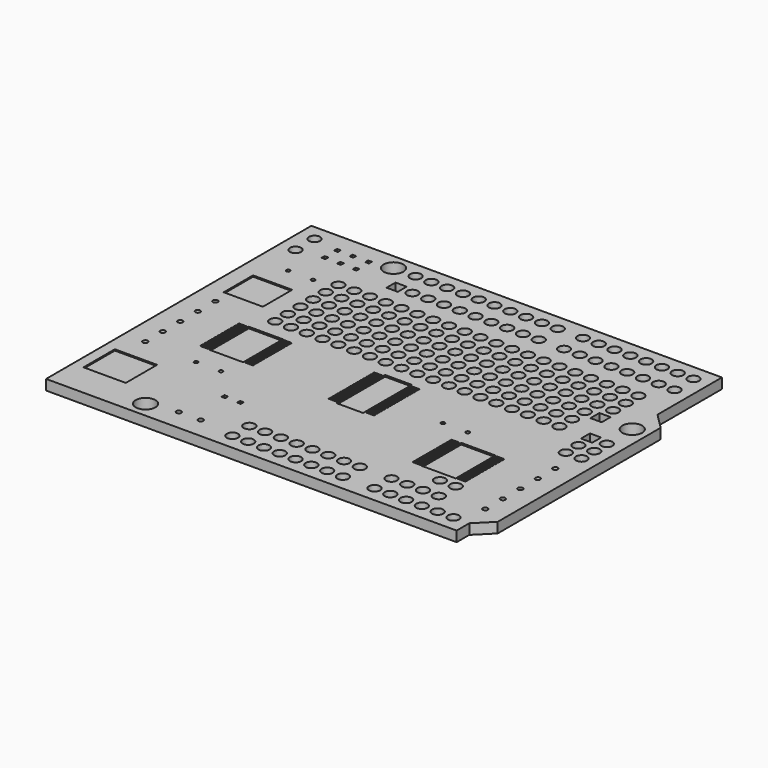
from build123d import *

# Parameters (mm, degrees)
F0_R     = 1.5875
F0_R_2   = 0.4
F0_R_3   = 0.9
F0_W     = 0.6
F0_H     = 0.6
F0_W_2   = 1.8
F0_H_2   = 1.8
F1_DEPTH = 1.65
F2_W     = 5.5
F2_H     = 8
F2_W_2   = 1.25
F2_H_2   = 0.5
F2_W_3   = 4.3
F2_H_3   = 9.8
F3_DEPTH = 0.25
F4_R     = 0.3
F5_DEPTH = 0.5
F6_W     = 6.3
F6_H     = 5.9
F6_W_2   = 6.8
F6_H_2   = 6.3
F7_DEPTH = 0.2


with BuildPart() as f1:
    # F0 (on Top) → F1 (new body)
    with BuildSketch(Plane.XY):
        Polygon((0, 53.34), (0, 0), (66.04, 0), (66.04, 2.54), (68.58, 5.08), (68.58, 37.846), (66.04, 40.386), (66.04, 53.34), align=None)
        with Locations((13.97, 2.54)):
            Circle(F0_R, mode=Mode.SUBTRACT)
        with Locations((18.64, 3.4)):
            Circle(F0_R_2, mode=Mode.SUBTRACT)
        with Locations((22.16, 3.4)):
            Circle(F0_R_2, mode=Mode.SUBTRACT)
        with Locations((27.94, 2.54)):
            Circle(F0_R_3, mode=Mode.SUBTRACT)
        with Locations((30.48, 2.54)):
            Circle(F0_R_3, mode=Mode.SUBTRACT)
        with Locations((33.02, 2.54)):
            Circle(F0_R_3, mode=Mode.SUBTRACT)
        with Locations((27.94, 5.94)):
            Circle(F0_R_3, mode=Mode.SUBTRACT)
        with Locations((30.48, 5.94)):
            Circle(F0_R_3, mode=Mode.SUBTRACT)
        with Locations((33.02, 5.94)):
            Circle(F0_R_3, mode=Mode.SUBTRACT)
        with Locations((20.55, 10.25)):
            Rectangle(F0_W, F0_H, mode=Mode.SUBTRACT)
        with Locations((23.05, 10.25)):
            Rectangle(F0_W, F0_H, mode=Mode.SUBTRACT)
        with Locations((3.4, 15.7)):
            Circle(F0_R_2, mode=Mode.SUBTRACT)
        with Locations((3.4, 19.22)):
            Circle(F0_R_2, mode=Mode.SUBTRACT)
        with Locations((3.4, 22.74)):
            Circle(F0_R_2, mode=Mode.SUBTRACT)
        with Locations((3.4, 26.26)):
            Circle(F0_R_2, mode=Mode.SUBTRACT)
        with Locations((35.56, 2.54)):
            Circle(F0_R_3, mode=Mode.SUBTRACT)
        with Locations((38.1, 2.54)):
            Circle(F0_R_3, mode=Mode.SUBTRACT)
        with Locations((40.64, 2.54)):
            Circle(F0_R_3, mode=Mode.SUBTRACT)
        with Locations((35.56, 5.94)):
            Circle(F0_R_3, mode=Mode.SUBTRACT)
        with Locations((38.1, 5.94)):
            Circle(F0_R_3, mode=Mode.SUBTRACT)
        with Locations((40.64, 5.94)):
            Circle(F0_R_3, mode=Mode.SUBTRACT)
        with Locations((43.18, 2.54)):
            Circle(F0_R_3, mode=Mode.SUBTRACT)
        with Locations((45.72, 2.54)):
            Circle(F0_R_3, mode=Mode.SUBTRACT)
        with Locations((50.8, 2.54)):
            Circle(F0_R_3, mode=Mode.SUBTRACT)
        with Locations((43.18, 5.94)):
            Circle(F0_R_3, mode=Mode.SUBTRACT)
        with Locations((45.72, 5.94)):
            Circle(F0_R_3, mode=Mode.SUBTRACT)
        with Locations((50.8, 5.94)):
            Circle(F0_R_3, mode=Mode.SUBTRACT)
        with Locations((53.34, 2.54)):
            Circle(F0_R_3, mode=Mode.SUBTRACT)
        with Locations((55.88, 2.54)):
            Circle(F0_R_3, mode=Mode.SUBTRACT)
        with Locations((58.42, 2.54)):
            Circle(F0_R_3, mode=Mode.SUBTRACT)
        with Locations((53.34, 5.94)):
            Circle(F0_R_3, mode=Mode.SUBTRACT)
        with Locations((55.88, 5.94)):
            Circle(F0_R_3, mode=Mode.SUBTRACT)
        with Locations((58.42, 5.94)):
            Circle(F0_R_3, mode=Mode.SUBTRACT)
        with Locations((60.96, 2.54)):
            Circle(F0_R_3, mode=Mode.SUBTRACT)
        with Locations((63.5, 2.54)):
            Circle(F0_R_3, mode=Mode.SUBTRACT)
        with Locations((55.88, 9.34)):
            Circle(F0_R_3, mode=Mode.SUBTRACT)
        with Locations((58.42, 9.34)):
            Circle(F0_R_3, mode=Mode.SUBTRACT)
        with Locations((65.18, 6.84)):
            Circle(F0_R_2, mode=Mode.SUBTRACT)
        with Locations((65.18, 10.36)):
            Circle(F0_R_2, mode=Mode.SUBTRACT)
        with Locations((65.18, 13.88)):
            Circle(F0_R_2, mode=Mode.SUBTRACT)
        with Locations((65.18, 17.4)):
            Circle(F0_R_2, mode=Mode.SUBTRACT)
        with Locations((65.18, 20.92)):
            Circle(F0_R_2, mode=Mode.SUBTRACT)
        with Locations((63.5, 25.12)):
            Circle(F0_R_3, mode=Mode.SUBTRACT)
        with Locations((66.04, 25.12)):
            Circle(F0_R_3, mode=Mode.SUBTRACT)
        with Locations((3.4, 29.78)):
            Circle(F0_R_2, mode=Mode.SUBTRACT)
        with Locations((12.7, 30.2)):
            Circle(F0_R_3, mode=Mode.SUBTRACT)
        with Locations((12.7, 32.74)):
            Circle(F0_R_3, mode=Mode.SUBTRACT)
        with Locations((15.24, 30.2)):
            Circle(F0_R_3, mode=Mode.SUBTRACT)
        with Locations((15.24, 32.74)):
            Circle(F0_R_3, mode=Mode.SUBTRACT)
        with Locations((12.7, 35.28)):
            Circle(F0_R_3, mode=Mode.SUBTRACT)
        with Locations((15.24, 35.28)):
            Circle(F0_R_3, mode=Mode.SUBTRACT)
        with Locations((12.7, 37.82)):
            Circle(F0_R_3, mode=Mode.SUBTRACT)
        with Locations((15.24, 37.82)):
            Circle(F0_R_3, mode=Mode.SUBTRACT)
        with Locations((17.78, 30.2)):
            Circle(F0_R_3, mode=Mode.SUBTRACT)
        with Locations((20.32, 30.2)):
            Circle(F0_R_3, mode=Mode.SUBTRACT)
        with Locations((17.78, 32.74)):
            Circle(F0_R_3, mode=Mode.SUBTRACT)
        with Locations((20.32, 32.74)):
            Circle(F0_R_3, mode=Mode.SUBTRACT)
        with Locations((22.86, 30.2)):
            Circle(F0_R_3, mode=Mode.SUBTRACT)
        with Locations((25.4, 30.2)):
            Circle(F0_R_3, mode=Mode.SUBTRACT)
        with Locations((22.86, 32.74)):
            Circle(F0_R_3, mode=Mode.SUBTRACT)
        with Locations((25.4, 32.74)):
            Circle(F0_R_3, mode=Mode.SUBTRACT)
        with Locations((27.94, 30.2)):
            Circle(F0_R_3, mode=Mode.SUBTRACT)
        with Locations((27.94, 32.74)):
            Circle(F0_R_3, mode=Mode.SUBTRACT)
        with Locations((30.48, 30.2)):
            Circle(F0_R_3, mode=Mode.SUBTRACT)
        with Locations((33.02, 30.2)):
            Circle(F0_R_3, mode=Mode.SUBTRACT)
        with Locations((30.48, 32.74)):
            Circle(F0_R_3, mode=Mode.SUBTRACT)
        with Locations((33.02, 32.74)):
            Circle(F0_R_3, mode=Mode.SUBTRACT)
        with Locations((17.78, 35.28)):
            Circle(F0_R_3, mode=Mode.SUBTRACT)
        with Locations((20.32, 35.28)):
            Circle(F0_R_3, mode=Mode.SUBTRACT)
        with Locations((22.86, 35.28)):
            Circle(F0_R_3, mode=Mode.SUBTRACT)
        with Locations((25.4, 35.28)):
            Circle(F0_R_3, mode=Mode.SUBTRACT)
        with Locations((17.78, 37.82)):
            Circle(F0_R_3, mode=Mode.SUBTRACT)
        with Locations((20.32, 37.82)):
            Circle(F0_R_3, mode=Mode.SUBTRACT)
        with Locations((22.86, 37.82)):
            Circle(F0_R_3, mode=Mode.SUBTRACT)
        with Locations((25.4, 37.82)):
            Circle(F0_R_3, mode=Mode.SUBTRACT)
        with Locations((27.94, 35.28)):
            Circle(F0_R_3, mode=Mode.SUBTRACT)
        with Locations((30.48, 35.28)):
            Circle(F0_R_3, mode=Mode.SUBTRACT)
        with Locations((33.02, 35.28)):
            Circle(F0_R_3, mode=Mode.SUBTRACT)
        with Locations((27.94, 37.82)):
            Circle(F0_R_3, mode=Mode.SUBTRACT)
        with Locations((30.48, 37.82)):
            Circle(F0_R_3, mode=Mode.SUBTRACT)
        with Locations((33.02, 37.82)):
            Circle(F0_R_3, mode=Mode.SUBTRACT)
        with Locations((12.7, 40.36)):
            Circle(F0_R_3, mode=Mode.SUBTRACT)
        with Locations((12.7, 42.9)):
            Circle(F0_R_3, mode=Mode.SUBTRACT)
        with Locations((15.24, 40.36)):
            Circle(F0_R_3, mode=Mode.SUBTRACT)
        with Locations((15.24, 42.9)):
            Circle(F0_R_3, mode=Mode.SUBTRACT)
        with Locations((2.54, 46.99)):
            Circle(F0_R_3, mode=Mode.SUBTRACT)
        with Locations((6.75, 47.645)):
            Rectangle(F0_W, F0_H, mode=Mode.SUBTRACT)
        with Locations((2.54, 50.8)):
            Circle(F0_R_3, mode=Mode.SUBTRACT)
        with Locations((6.75, 50.145)):
            Rectangle(F0_W, F0_H, mode=Mode.SUBTRACT)
        with Locations((9.25, 47.645)):
            Rectangle(F0_W, F0_H, mode=Mode.SUBTRACT)
        with Locations((11.75, 47.645)):
            Rectangle(F0_W, F0_H, mode=Mode.SUBTRACT)
        with Locations((9.25, 50.145)):
            Rectangle(F0_W, F0_H, mode=Mode.SUBTRACT)
        with Locations((11.75, 50.145)):
            Rectangle(F0_W, F0_H, mode=Mode.SUBTRACT)
        with Locations((15.24, 50.8)):
            Circle(F0_R, mode=Mode.SUBTRACT)
        with Locations((17.78, 40.36)):
            Circle(F0_R_3, mode=Mode.SUBTRACT)
        with Locations((20.32, 40.36)):
            Circle(F0_R_3, mode=Mode.SUBTRACT)
        with Locations((17.78, 42.9)):
            Circle(F0_R_3, mode=Mode.SUBTRACT)
        with Locations((20.32, 42.9)):
            Circle(F0_R_3, mode=Mode.SUBTRACT)
        with Locations((22.86, 40.36)):
            Circle(F0_R_3, mode=Mode.SUBTRACT)
        with Locations((25.4, 40.36)):
            Circle(F0_R_3, mode=Mode.SUBTRACT)
        with Locations((22.86, 42.9)):
            Circle(F0_R_3, mode=Mode.SUBTRACT)
        with Locations((25.4, 42.9)):
            Circle(F0_R_3, mode=Mode.SUBTRACT)
        with Locations((27.94, 40.36)):
            Circle(F0_R_3, mode=Mode.SUBTRACT)
        with Locations((27.94, 42.9)):
            Circle(F0_R_3, mode=Mode.SUBTRACT)
        with Locations((30.48, 40.36)):
            Circle(F0_R_3, mode=Mode.SUBTRACT)
        with Locations((33.02, 40.36)):
            Circle(F0_R_3, mode=Mode.SUBTRACT)
        with Locations((30.48, 42.9)):
            Circle(F0_R_3, mode=Mode.SUBTRACT)
        with Locations((33.02, 42.9)):
            Circle(F0_R_3, mode=Mode.SUBTRACT)
        with Locations((18.796, 46.99)):
            Rectangle(F0_W_2, F0_H_2, mode=Mode.SUBTRACT)
        with Locations((21.336, 46.99)):
            Circle(F0_R_3, mode=Mode.SUBTRACT)
        with Locations((23.876, 46.99)):
            Circle(F0_R_3, mode=Mode.SUBTRACT)
        with Locations((18.796, 50.8)):
            Circle(F0_R_3, mode=Mode.SUBTRACT)
        with Locations((21.336, 50.8)):
            Circle(F0_R_3, mode=Mode.SUBTRACT)
        with Locations((23.876, 50.8)):
            Circle(F0_R_3, mode=Mode.SUBTRACT)
        with Locations((26.416, 46.99)):
            Circle(F0_R_3, mode=Mode.SUBTRACT)
        with Locations((28.956, 46.99)):
            Circle(F0_R_3, mode=Mode.SUBTRACT)
        with Locations((31.496, 46.99)):
            Circle(F0_R_3, mode=Mode.SUBTRACT)
        with Locations((34.036, 46.99)):
            Circle(F0_R_3, mode=Mode.SUBTRACT)
        with Locations((26.416, 50.8)):
            Circle(F0_R_3, mode=Mode.SUBTRACT)
        with Locations((28.956, 50.8)):
            Circle(F0_R_3, mode=Mode.SUBTRACT)
        with Locations((31.496, 50.8)):
            Circle(F0_R_3, mode=Mode.SUBTRACT)
        with Locations((34.036, 50.8)):
            Circle(F0_R_3, mode=Mode.SUBTRACT)
        with Locations((35.56, 30.2)):
            Circle(F0_R_3, mode=Mode.SUBTRACT)
        with Locations((38.1, 30.2)):
            Circle(F0_R_3, mode=Mode.SUBTRACT)
        with Locations((35.56, 32.74)):
            Circle(F0_R_3, mode=Mode.SUBTRACT)
        with Locations((38.1, 32.74)):
            Circle(F0_R_3, mode=Mode.SUBTRACT)
        with Locations((40.64, 30.2)):
            Circle(F0_R_3, mode=Mode.SUBTRACT)
        with Locations((40.64, 32.74)):
            Circle(F0_R_3, mode=Mode.SUBTRACT)
        with Locations((43.18, 30.2)):
            Circle(F0_R_3, mode=Mode.SUBTRACT)
        with Locations((45.72, 30.2)):
            Circle(F0_R_3, mode=Mode.SUBTRACT)
        with Locations((43.18, 32.74)):
            Circle(F0_R_3, mode=Mode.SUBTRACT)
        with Locations((45.72, 32.74)):
            Circle(F0_R_3, mode=Mode.SUBTRACT)
        with Locations((48.26, 30.2)):
            Circle(F0_R_3, mode=Mode.SUBTRACT)
        with Locations((50.8, 30.2)):
            Circle(F0_R_3, mode=Mode.SUBTRACT)
        with Locations((48.26, 32.74)):
            Circle(F0_R_3, mode=Mode.SUBTRACT)
        with Locations((50.8, 32.74)):
            Circle(F0_R_3, mode=Mode.SUBTRACT)
        with Locations((35.56, 35.28)):
            Circle(F0_R_3, mode=Mode.SUBTRACT)
        with Locations((38.1, 35.28)):
            Circle(F0_R_3, mode=Mode.SUBTRACT)
        with Locations((40.64, 35.28)):
            Circle(F0_R_3, mode=Mode.SUBTRACT)
        with Locations((35.56, 37.82)):
            Circle(F0_R_3, mode=Mode.SUBTRACT)
        with Locations((38.1, 37.82)):
            Circle(F0_R_3, mode=Mode.SUBTRACT)
        with Locations((40.64, 37.82)):
            Circle(F0_R_3, mode=Mode.SUBTRACT)
        with Locations((43.18, 35.28)):
            Circle(F0_R_3, mode=Mode.SUBTRACT)
        with Locations((45.72, 35.28)):
            Circle(F0_R_3, mode=Mode.SUBTRACT)
        with Locations((48.26, 35.28)):
            Circle(F0_R_3, mode=Mode.SUBTRACT)
        with Locations((50.8, 35.28)):
            Circle(F0_R_3, mode=Mode.SUBTRACT)
        with Locations((43.18, 37.82)):
            Circle(F0_R_3, mode=Mode.SUBTRACT)
        with Locations((45.72, 37.82)):
            Circle(F0_R_3, mode=Mode.SUBTRACT)
        with Locations((48.26, 37.82)):
            Circle(F0_R_3, mode=Mode.SUBTRACT)
        with Locations((50.8, 37.82)):
            Circle(F0_R_3, mode=Mode.SUBTRACT)
        with Locations((53.34, 30.2)):
            Circle(F0_R_3, mode=Mode.SUBTRACT)
        with Locations((53.34, 32.74)):
            Circle(F0_R_3, mode=Mode.SUBTRACT)
        with Locations((55.88, 30.2)):
            Circle(F0_R_3, mode=Mode.SUBTRACT)
        with Locations((58.42, 30.2)):
            Circle(F0_R_3, mode=Mode.SUBTRACT)
        with Locations((55.88, 32.74)):
            Circle(F0_R_3, mode=Mode.SUBTRACT)
        with Locations((58.42, 32.74)):
            Circle(F0_R_3, mode=Mode.SUBTRACT)
        with Locations((63.5, 27.66)):
            Circle(F0_R_3, mode=Mode.SUBTRACT)
        with Locations((66.04, 27.66)):
            Circle(F0_R_3, mode=Mode.SUBTRACT)
        with Locations((63.5, 30.2)):
            Rectangle(F0_W_2, F0_H_2, mode=Mode.SUBTRACT)
        with Locations((66.04, 30.2)):
            Circle(F0_R_3, mode=Mode.SUBTRACT)
        with Locations((53.34, 35.28)):
            Circle(F0_R_3, mode=Mode.SUBTRACT)
        with Locations((55.88, 35.28)):
            Circle(F0_R_3, mode=Mode.SUBTRACT)
        with Locations((58.42, 35.28)):
            Circle(F0_R_3, mode=Mode.SUBTRACT)
        with Locations((53.34, 37.82)):
            Circle(F0_R_3, mode=Mode.SUBTRACT)
        with Locations((55.88, 37.82)):
            Circle(F0_R_3, mode=Mode.SUBTRACT)
        with Locations((58.42, 37.82)):
            Circle(F0_R_3, mode=Mode.SUBTRACT)
        with Locations((60.96, 35.28)):
            Rectangle(F0_W_2, F0_H_2, mode=Mode.SUBTRACT)
        with Locations((66.04, 35.306)):
            Circle(F0_R, mode=Mode.SUBTRACT)
        with Locations((60.96, 37.82)):
            Circle(F0_R_3, mode=Mode.SUBTRACT)
        with Locations((35.56, 40.36)):
            Circle(F0_R_3, mode=Mode.SUBTRACT)
        with Locations((38.1, 40.36)):
            Circle(F0_R_3, mode=Mode.SUBTRACT)
        with Locations((35.56, 42.9)):
            Circle(F0_R_3, mode=Mode.SUBTRACT)
        with Locations((38.1, 42.9)):
            Circle(F0_R_3, mode=Mode.SUBTRACT)
        with Locations((40.64, 40.36)):
            Circle(F0_R_3, mode=Mode.SUBTRACT)
        with Locations((40.64, 42.9)):
            Circle(F0_R_3, mode=Mode.SUBTRACT)
        with Locations((43.18, 40.36)):
            Circle(F0_R_3, mode=Mode.SUBTRACT)
        with Locations((45.72, 40.36)):
            Circle(F0_R_3, mode=Mode.SUBTRACT)
        with Locations((43.18, 42.9)):
            Circle(F0_R_3, mode=Mode.SUBTRACT)
        with Locations((45.72, 42.9)):
            Circle(F0_R_3, mode=Mode.SUBTRACT)
        with Locations((48.26, 40.36)):
            Circle(F0_R_3, mode=Mode.SUBTRACT)
        with Locations((50.8, 40.36)):
            Circle(F0_R_3, mode=Mode.SUBTRACT)
        with Locations((48.26, 42.9)):
            Circle(F0_R_3, mode=Mode.SUBTRACT)
        with Locations((50.8, 42.9)):
            Circle(F0_R_3, mode=Mode.SUBTRACT)
        with Locations((36.576, 46.99)):
            Circle(F0_R_3, mode=Mode.SUBTRACT)
        with Locations((39.116, 46.99)):
            Circle(F0_R_3, mode=Mode.SUBTRACT)
        with Locations((41.656, 46.99)):
            Circle(F0_R_3, mode=Mode.SUBTRACT)
        with Locations((36.576, 50.8)):
            Circle(F0_R_3, mode=Mode.SUBTRACT)
        with Locations((39.116, 50.8)):
            Circle(F0_R_3, mode=Mode.SUBTRACT)
        with Locations((41.656, 50.8)):
            Circle(F0_R_3, mode=Mode.SUBTRACT)
        with Locations((45.72, 46.99)):
            Circle(F0_R_3, mode=Mode.SUBTRACT)
        with Locations((48.26, 46.99)):
            Circle(F0_R_3, mode=Mode.SUBTRACT)
        with Locations((50.8, 46.99)):
            Circle(F0_R_3, mode=Mode.SUBTRACT)
        with Locations((45.72, 50.8)):
            Circle(F0_R_3, mode=Mode.SUBTRACT)
        with Locations((48.26, 50.8)):
            Circle(F0_R_3, mode=Mode.SUBTRACT)
        with Locations((50.8, 50.8)):
            Circle(F0_R_3, mode=Mode.SUBTRACT)
        with Locations((53.34, 40.36)):
            Circle(F0_R_3, mode=Mode.SUBTRACT)
        with Locations((53.34, 42.9)):
            Circle(F0_R_3, mode=Mode.SUBTRACT)
        with Locations((55.88, 40.36)):
            Circle(F0_R_3, mode=Mode.SUBTRACT)
        with Locations((58.42, 40.36)):
            Circle(F0_R_3, mode=Mode.SUBTRACT)
        with Locations((55.88, 42.9)):
            Circle(F0_R_3, mode=Mode.SUBTRACT)
        with Locations((58.42, 42.9)):
            Circle(F0_R_3, mode=Mode.SUBTRACT)
        with Locations((60.96, 40.36)):
            Circle(F0_R_3, mode=Mode.SUBTRACT)
        with Locations((60.96, 42.9)):
            Circle(F0_R_3, mode=Mode.SUBTRACT)
        with Locations((53.34, 46.99)):
            Circle(F0_R_3, mode=Mode.SUBTRACT)
        with Locations((55.88, 46.99)):
            Circle(F0_R_3, mode=Mode.SUBTRACT)
        with Locations((58.42, 46.99)):
            Circle(F0_R_3, mode=Mode.SUBTRACT)
        with Locations((53.34, 50.8)):
            Circle(F0_R_3, mode=Mode.SUBTRACT)
        with Locations((55.88, 50.8)):
            Circle(F0_R_3, mode=Mode.SUBTRACT)
        with Locations((58.42, 50.8)):
            Circle(F0_R_3, mode=Mode.SUBTRACT)
        with Locations((60.96, 46.99)):
            Circle(F0_R_3, mode=Mode.SUBTRACT)
        with Locations((63.5, 46.99)):
            Circle(F0_R_3, mode=Mode.SUBTRACT)
        with Locations((60.96, 50.8)):
            Circle(F0_R_3, mode=Mode.SUBTRACT)
        with Locations((63.5, 50.8)):
            Circle(F0_R_3, mode=Mode.SUBTRACT)
    extrude(amount=F1_DEPTH)

    # F2 (on face) → F3 (cut)
    with BuildSketch(Plane.XY.offset(1.65)):
        with Locations((54.33, 15)):
            Rectangle(F2_W, F2_H)
        with Locations((50.705, 18.666667)):
            Rectangle(F2_W_2, F2_H_2)
        with Locations((50.705, 18)):
            Rectangle(F2_W_2, F2_H_2)
        with Locations((50.705, 17.333333)):
            Rectangle(F2_W_2, F2_H_2)
        with Locations((50.705, 16.666667)):
            Rectangle(F2_W_2, F2_H_2)
        with Locations((50.705, 16)):
            Rectangle(F2_W_2, F2_H_2)
        with Locations((50.705, 15.333333)):
            Rectangle(F2_W_2, F2_H_2)
        with Locations((50.705, 14.666667)):
            Rectangle(F2_W_2, F2_H_2)
        with Locations((50.705, 14)):
            Rectangle(F2_W_2, F2_H_2)
        with Locations((50.705, 13.333333)):
            Rectangle(F2_W_2, F2_H_2)
        with Locations((50.705, 12.666667)):
            Rectangle(F2_W_2, F2_H_2)
        with Locations((50.705, 12)):
            Rectangle(F2_W_2, F2_H_2)
        with Locations((50.705, 11.333333)):
            Rectangle(F2_W_2, F2_H_2)
        with Locations((57.955, 18)):
            Rectangle(F2_W_2, F2_H_2)
        with Locations((57.955, 12.666667)):
            Rectangle(F2_W_2, F2_H_2)
        with Locations((57.955, 12)):
            Rectangle(F2_W_2, F2_H_2)
        with Locations((57.955, 17.333333)):
            Rectangle(F2_W_2, F2_H_2)
        with Locations((57.955, 16.666667)):
            Rectangle(F2_W_2, F2_H_2)
        with Locations((57.955, 11.333333)):
            Rectangle(F2_W_2, F2_H_2)
        with Locations((57.955, 18.666667)):
            Rectangle(F2_W_2, F2_H_2)
        with Locations((57.955, 15.333333)):
            Rectangle(F2_W_2, F2_H_2)
        with Locations((57.955, 14.666667)):
            Rectangle(F2_W_2, F2_H_2)
        with Locations((57.955, 14)):
            Rectangle(F2_W_2, F2_H_2)
        with Locations((57.955, 16)):
            Rectangle(F2_W_2, F2_H_2)
        with Locations((57.955, 13.333333)):
            Rectangle(F2_W_2, F2_H_2)
        with Locations((13.75, 23)):
            Rectangle(F2_W, F2_H)
        with Locations((10.125, 26.666667)):
            Rectangle(F2_W_2, F2_H_2)
        with Locations((10.125, 26)):
            Rectangle(F2_W_2, F2_H_2)
        with Locations((10.125, 25.333333)):
            Rectangle(F2_W_2, F2_H_2)
        with Locations((10.125, 24.666667)):
            Rectangle(F2_W_2, F2_H_2)
        with Locations((10.125, 24)):
            Rectangle(F2_W_2, F2_H_2)
        with Locations((10.125, 23.333333)):
            Rectangle(F2_W_2, F2_H_2)
        with Locations((10.125, 22.666667)):
            Rectangle(F2_W_2, F2_H_2)
        with Locations((10.125, 22)):
            Rectangle(F2_W_2, F2_H_2)
        with Locations((10.125, 21.333333)):
            Rectangle(F2_W_2, F2_H_2)
        with Locations((10.125, 20.666667)):
            Rectangle(F2_W_2, F2_H_2)
        with Locations((10.125, 20)):
            Rectangle(F2_W_2, F2_H_2)
        with Locations((10.125, 19.333333)):
            Rectangle(F2_W_2, F2_H_2)
        with Locations((17.375, 26.666667)):
            Rectangle(F2_W_2, F2_H_2)
        with Locations((17.375, 26)):
            Rectangle(F2_W_2, F2_H_2)
        with Locations((17.375, 21.333333)):
            Rectangle(F2_W_2, F2_H_2)
        with Locations((17.375, 24)):
            Rectangle(F2_W_2, F2_H_2)
        with Locations((17.375, 24.666667)):
            Rectangle(F2_W_2, F2_H_2)
        with Locations((17.375, 19.333333)):
            Rectangle(F2_W_2, F2_H_2)
        with Locations((17.375, 22)):
            Rectangle(F2_W_2, F2_H_2)
        with Locations((17.375, 25.333333)):
            Rectangle(F2_W_2, F2_H_2)
        with Locations((17.375, 22.666667)):
            Rectangle(F2_W_2, F2_H_2)
        with Locations((17.375, 20)):
            Rectangle(F2_W_2, F2_H_2)
        with Locations((17.375, 23.333333)):
            Rectangle(F2_W_2, F2_H_2)
        with Locations((17.375, 20.666667)):
            Rectangle(F2_W_2, F2_H_2)
        with Locations((34.73, 22.54)):
            Rectangle(F2_W_3, F2_H_3)
        with Locations((31.705, 26.873333)):
            Rectangle(F2_W_2, F2_H_2)
        with Locations((31.705, 26.206667)):
            Rectangle(F2_W_2, F2_H_2)
        with Locations((31.705, 25.54)):
            Rectangle(F2_W_2, F2_H_2)
        with Locations((31.705, 24.873333)):
            Rectangle(F2_W_2, F2_H_2)
        with Locations((31.705, 24.206667)):
            Rectangle(F2_W_2, F2_H_2)
        with Locations((31.705, 23.54)):
            Rectangle(F2_W_2, F2_H_2)
        with Locations((31.705, 22.873333)):
            Rectangle(F2_W_2, F2_H_2)
        with Locations((31.705, 22.206667)):
            Rectangle(F2_W_2, F2_H_2)
        with Locations((31.705, 21.54)):
            Rectangle(F2_W_2, F2_H_2)
        with Locations((31.705, 20.873333)):
            Rectangle(F2_W_2, F2_H_2)
        with Locations((31.705, 20.206667)):
            Rectangle(F2_W_2, F2_H_2)
        with Locations((31.705, 19.54)):
            Rectangle(F2_W_2, F2_H_2)
        with Locations((31.705, 18.873333)):
            Rectangle(F2_W_2, F2_H_2)
        with Locations((31.705, 18.206667)):
            Rectangle(F2_W_2, F2_H_2)
        with Locations((37.755, 26.206667)):
            Rectangle(F2_W_2, F2_H_2)
        with Locations((37.755, 18.206667)):
            Rectangle(F2_W_2, F2_H_2)
        with Locations((37.755, 26.873333)):
            Rectangle(F2_W_2, F2_H_2)
        with Locations((37.755, 25.54)):
            Rectangle(F2_W_2, F2_H_2)
        with Locations((37.755, 22.873333)):
            Rectangle(F2_W_2, F2_H_2)
        with Locations((37.755, 20.873333)):
            Rectangle(F2_W_2, F2_H_2)
        with Locations((37.755, 20.206667)):
            Rectangle(F2_W_2, F2_H_2)
        with Locations((37.755, 23.54)):
            Rectangle(F2_W_2, F2_H_2)
        with Locations((37.755, 19.54)):
            Rectangle(F2_W_2, F2_H_2)
        with Locations((37.755, 24.873333)):
            Rectangle(F2_W_2, F2_H_2)
        with Locations((37.755, 22.206667)):
            Rectangle(F2_W_2, F2_H_2)
        with Locations((37.755, 21.54)):
            Rectangle(F2_W_2, F2_H_2)
        with Locations((37.755, 18.873333)):
            Rectangle(F2_W_2, F2_H_2)
        with Locations((37.755, 24.206667)):
            Rectangle(F2_W_2, F2_H_2)
    extrude(amount=-F3_DEPTH, mode=Mode.SUBTRACT)

    # F4 (on face) → F5 (cut)
    with BuildSketch(Plane.XY.offset(1.65)):
        with Locations((46.43, 21.75)):
            Circle(F4_R)
        with Locations((50.43, 21.75)):
            Circle(F4_R)
        with Locations((11.85, 15.35)):
            Circle(F4_R)
        with Locations((15.85, 15.35)):
            Circle(F4_R)
        with Locations((5.35, 41.99)):
            Circle(F4_R)
        with Locations((9.35, 41.99)):
            Circle(F4_R)
    extrude(amount=-F5_DEPTH, mode=Mode.SUBTRACT)

    # F6 (on face) → F7 (cut)
    with BuildSketch(Plane.XY.offset(1.65)):
        with Locations((5.85, 35.29)):
            Rectangle(F6_W, F6_H)
        with Locations((5.1, 8.55)):
            Rectangle(F6_W_2, F6_H_2)
    extrude(amount=-F7_DEPTH, mode=Mode.SUBTRACT)


solid = f1.part
